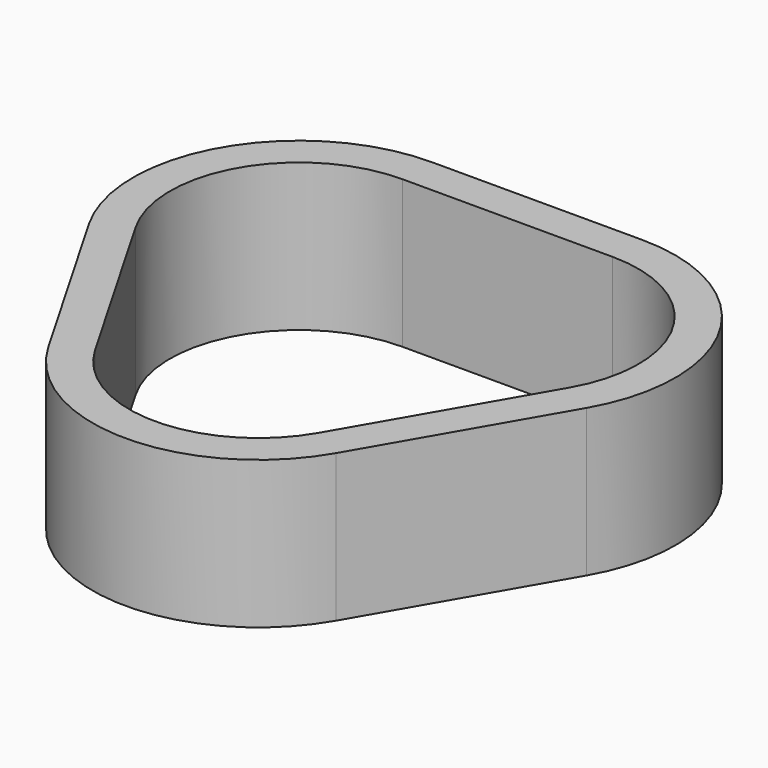
from build123d import *

# Parameters (mm, degrees)
F1_DEPTH = 12.7


with BuildPart() as f1:
    # F0 (on Top) → F1 (new body)
    with BuildSketch(Plane.XY):
        with BuildLine():
            Line((-8.252392, 39.925466), (-26.362592, 39.925466))
            ThreePointArc((-26.362592, 39.925466), (-38.73593, 32.781716), (-38.73593, 18.494216))
            Line((-38.73593, 18.494216), (-29.68083, 2.810322))
            ThreePointArc((-29.68083, 2.810322), (-17.307492, -4.333428), (-4.934154, 2.810322))
            Line((-4.934154, 2.810322), (4.120946, 18.494216))
            ThreePointArc((4.120946, 18.494216), (4.120946, 32.781716), (-8.252392, 39.925466))
        make_face()
        with BuildLine():
            ThreePointArc((-35.9863, 20.081716), (-35.9863, 31.194216), (-26.362592, 36.750466))
            Line((-26.362592, 36.750466), (-8.252392, 36.750466))
            ThreePointArc((-8.252392, 36.750466), (1.371315, 31.194216), (1.371315, 20.081716))
            Line((1.371315, 20.081716), (-7.683785, 4.397822))
            ThreePointArc((-7.683785, 4.397822), (-17.307492, -1.158428), (-26.9312, 4.397822))
            Line((-26.9312, 4.397822), (-35.9863, 20.081716))
        make_face(mode=Mode.SUBTRACT)
    extrude(amount=F1_DEPTH)


solid = f1.part
